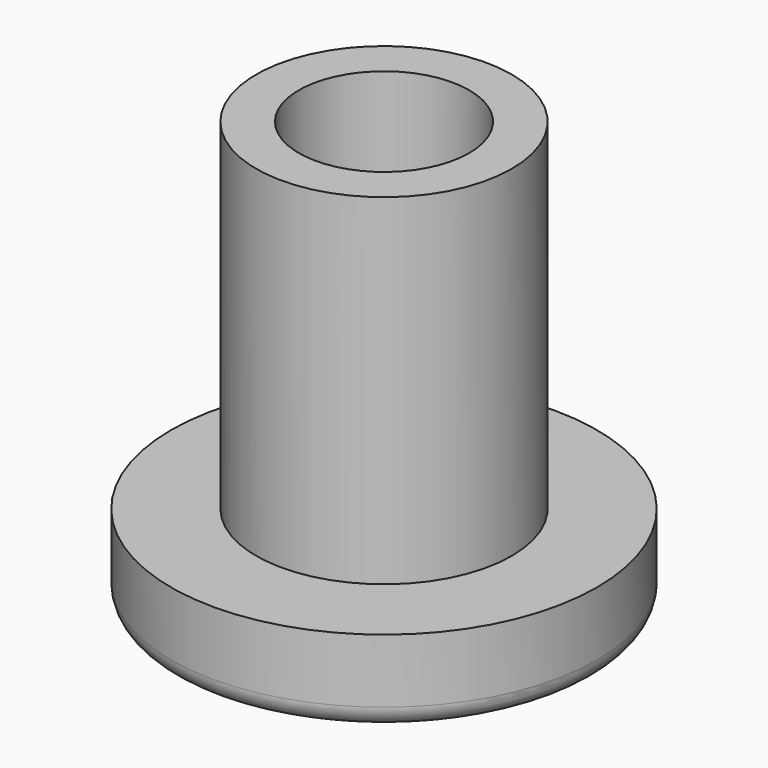
from build123d import *

# Parameters (mm, degrees)
F0_R     = 3
F0_R_2   = 2
F1_DEPTH = 10
F0_R_3   = 5
F2_DEPTH = 2
F3_R     = 0.5


with BuildPart() as f1:
    # F0 (on Top) → F1 (new body)
    with BuildSketch(Plane.XY):
        Circle(F0_R)
        Circle(F0_R_2, mode=Mode.SUBTRACT)
    extrude(amount=F1_DEPTH)

    # F0 (on Top) → F2 (join)
    with BuildSketch(Plane.XY):
        Circle(F0_R_3)
        Circle(F0_R, mode=Mode.SUBTRACT)
    extrude(amount=F2_DEPTH)

    # F3
    f3_edges = [f1.edges().sort_by_distance(p)[0] for p in [
        (-5, 0, 0),
        (-2, 0, 0),
    ]]
    fillet(f3_edges, radius=F3_R)


solid = f1.part
